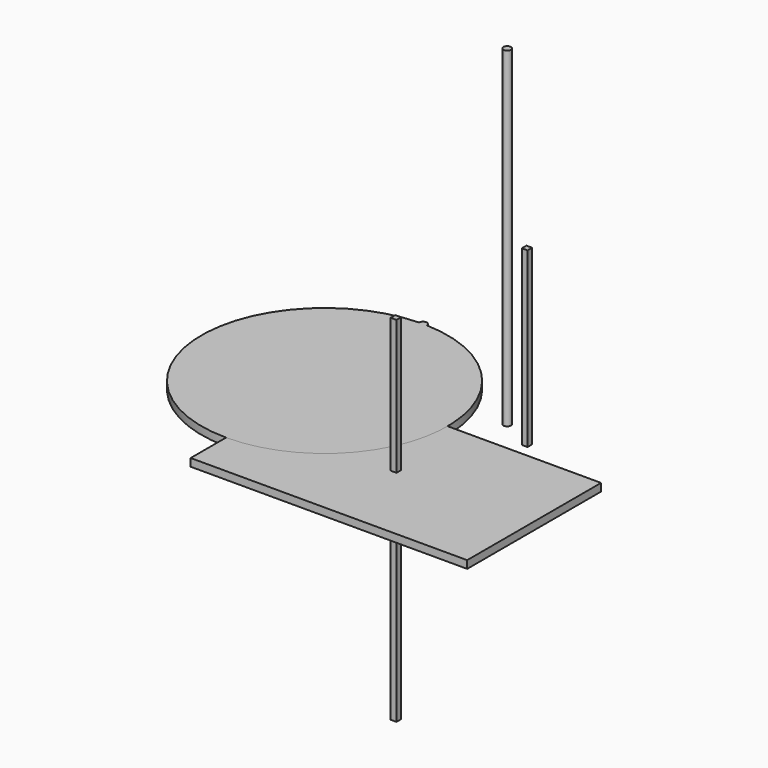
from build123d import *

# Parameters (mm, degrees)
F0_W      = 912.876
F0_H      = 552.45
F4_DEPTH  = 25.4
F5_DEPTH  = 25.4
F2_R      = 12.7
F6_DEPTH  = 1092.2
F3_W      = 19.05
F3_H      = 19.05
F7_DEPTH  = 571.5
F8_W      = 19.05
F8_H      = 19.05
F9_DEPTH  = 444.5
F10_W     = 19.05
F10_H     = 19.05
F11_DEPTH = 698.5


with BuildPart() as f4:
    # F0 (on Top) → F4 (new body)
    with BuildSketch(Plane.XY):
        Rectangle(F0_W, F0_H)
    extrude(amount=F4_DEPTH)


with BuildPart() as f5:
    # F1 (on face) → F5 (new body)
    with BuildSketch(Plane.XY):
        with BuildLine():
            ThreePointArc((-443.7395503876, 682.4265625), (-456.438, 695.325), (-469.1364496124, 682.4265625))
            ThreePointArc((-469.1364496124, 682.4265625), (-862.7883875967, 269.875), (-456.438, -130.175))
            Line((-456.438, -130.175), (-456.438, 276.225))
            Line((-456.438, 276.225), (-50.038, 276.225))
            ThreePointArc((-50.038, 276.225), (-164.614757332, 559.0679865469), (-443.7395503876, 682.4265625))
        make_face()
        with BuildLine():
            Line((-456.438, 276.225), (-456.438, -130.175))
            ThreePointArc((-456.438, -130.175), (-169.0698041258, -11.1431958742), (-50.038, 276.225))
            Line((-50.038, 276.225), (-456.438, 276.225))
        make_face()
    extrude(amount=F5_DEPTH)


with BuildPart() as f6:
    # F2 (on Top) → F6 (new body)
    with BuildSketch(Plane.XY):
        with Locations((32.2094038129, 419.1452562809)):
            Circle(F2_R)
    extrude(amount=F6_DEPTH)


with BuildPart() as f7:
    # F3 (on Top) → F7 (new body)
    with BuildSketch(Plane.XY):
        with Locations((143.5925364494, 361.6829961538)):
            Rectangle(F3_W, F3_H)
    extrude(amount=F7_DEPTH)


with BuildPart() as f9:
    # F8 (on face) → F9 (new body)
    with BuildSketch(Plane.XY.offset(25.4)):
        Rectangle(F8_W, F8_H)
    extrude(amount=F9_DEPTH)


with BuildPart() as f11:
    # F10 (on face) → F11 (new body)
    with BuildSketch(Plane(origin=(0, 0, 0), x_dir=(1, 0, 0), z_dir=(0, 0, -1))):
        Rectangle(F10_W, F10_H)
    extrude(amount=F11_DEPTH)


solid = Compound([f4.part, f5.part, f6.part, f7.part, f9.part, f11.part])
